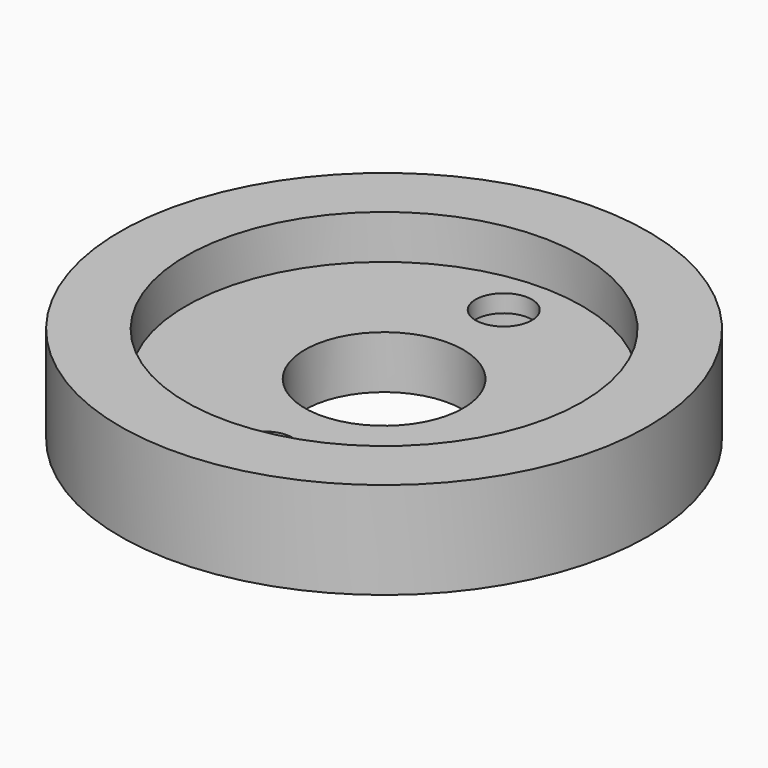
from build123d import *

# Parameters (mm, degrees)
SKETCH_R        = 15
PAD_DEPTH       = 5.5
SKETCH001_R     = 4.5
SKETCH001_R_2   = 1.6
POCKET_DEPTH    = 5.501
SKETCH002_R     = 11.25
POCKET001_DEPTH = 2.5
SKETCH003_R     = 3
POCKET002_DEPTH = 2


with BuildPart() as part:
    # Sketch → Pad (new body)
    with BuildSketch(Plane.XY):
        Circle(SKETCH_R)
    extrude(amount=PAD_DEPTH)

    # Sketch001 (on Face3 of Pad) → Pocket (cut, through all)
    with BuildSketch(Plane.XY.offset(5.5)):
        Circle(SKETCH001_R)
        with Locations((0, 8.5)):
            Circle(SKETCH001_R_2)
        with Locations((0, -8.5)):
            Circle(SKETCH001_R_2)
    extrude(amount=-POCKET_DEPTH, mode=Mode.SUBTRACT)

    # Sketch002 (on Face3 of Pocket) → Pocket001 (cut)
    with BuildSketch(Plane.XY.offset(5.5)):
        Circle(SKETCH002_R)
    extrude(amount=-POCKET001_DEPTH, mode=Mode.SUBTRACT)

    # Sketch003 (on Face2 of Pocket001) → Pocket002 (cut)
    with BuildSketch(Plane(origin=(0, 0, 0), x_dir=(1, 0, 0), z_dir=(0, 0, -1))):
        with Locations((0, 8.5)):
            Circle(SKETCH003_R)
        with Locations((0, -8.5)):
            Circle(SKETCH003_R)
    extrude(amount=-POCKET002_DEPTH, mode=Mode.SUBTRACT)


solid = part.part
